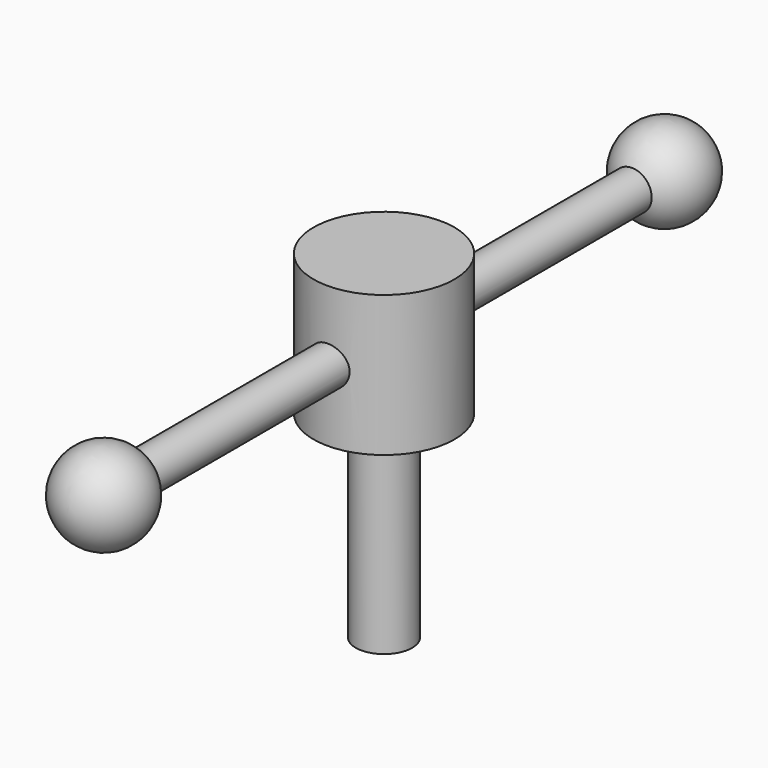
from build123d import *

# Parameters (mm, degrees)
F0_R     = 15.875
F1_DEPTH = 31.75
F2_R     = 6.35
F3_DEPTH = 44.45
F4_R     = 4.445
F5_DEPTH = 69.85


with BuildPart() as f1:
    # F0 (on Top) → F1 (new body)
    with BuildSketch(Plane.XY):
        Circle(F0_R)
    extrude(amount=F1_DEPTH)

    # F2 (on face) → F3 (join)
    with BuildSketch(Plane(origin=(0, 0, 0), x_dir=(1, 0, 0), z_dir=(0, 0, -1))):
        Circle(F2_R)
    extrude(amount=F3_DEPTH)

    # F4 (on Front) → F5 (join, symmetric)
    with BuildSketch(Plane.XZ):
        with Locations((0, 15.875)):
            Circle(F4_R)
    extrude(amount=F5_DEPTH, both=True)

    # F6 (on Right) → F7 (revolve)
    with BuildSketch(Plane.YZ):
        with BuildLine():
            Line((69.85, 20.32), (69.85, 15.875))
            Line((69.85, 15.875), (89.146059, 15.875))
            ThreePointArc((89.146059, 15.875), (81.266765, 25.775706), (69.85, 20.32))
        make_face()
        with BuildLine():
            ThreePointArc((-69.85, 20.32), (-81.266765, 25.775706), (-89.146059, 15.875))
            Line((-89.146059, 15.875), (-69.85, 15.875))
            Line((-69.85, 15.875), (-69.85, 20.32))
        make_face()
    revolve(axis=Axis((0, 79.49803, 15.875), (0, 1, 0)))


solid = f1.part
